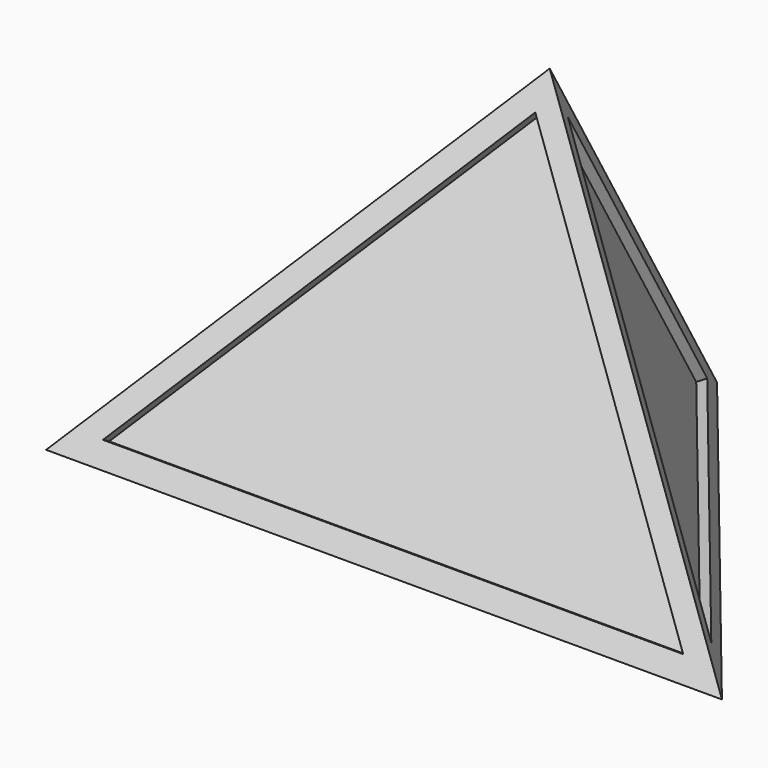
from build123d import *

# Parameters (mm, degrees)
F7_DEPTH = 0.8128
F8_DEPTH = 0.8128
F9_DEPTH = 0.8128


with BuildPart() as f3:
    # F0 (on Top) → F3 section 0
    with BuildSketch(Plane.XY, mode=Mode.PRIVATE) as f3_s0:
        Polygon((-29.9980398268, -36.9558446109), (29.9980398268, -36.9558446109), (0, 0), align=None)
    loft([f3_s0.sketch, Vertex(-0.0778641552, -18.4707883745, 32.0170565822)])

    # F5 (on face) → F7 (cut)
    with BuildSketch(Plane(origin=(0, -27.7168834582, 16.0023501257), x_dir=(1, 0, 0), z_dir=(0, -0.8660254038, 0.5))):
        Polygon((-25.7607347469, -16.4560821702), (25.7468520606, -16.4560821702), (-0.0737889564, 15.2833462803), align=None)
    extrude(amount=-F7_DEPTH, mode=Mode.SUBTRACT)

    # F6 (on face) → F8 (cut)
    with BuildSketch(Plane(origin=(0, 0, 0), x_dir=(-0.5355684781, 0.8059841071, -0.252103202), z_dir=(0.729232256, 0.591937175, 0.3432647631))):
        Polygon((-41.7223640249, -9.5028096175), (-3.510395555, 1.1444631503), (-22.6090033778, 25.3135608223), align=None)
    extrude(amount=-F8_DEPTH, mode=Mode.SUBTRACT)

    # F4 (on face) → F9 (cut)
    with BuildSketch(Plane(origin=(0, 0, 0), x_dir=(-0.537220985, -0.805456085, 0.250268073), z_dir=(-0.7301171424, 0.5926554607, 0.3401300682))):
        Polygon((3.4951138194, 1.1430482538), (41.776044137, -9.426033441), (22.6281892536, 25.3299917255), align=None)
    extrude(amount=-F9_DEPTH, mode=Mode.SUBTRACT)


solid = f3.part
